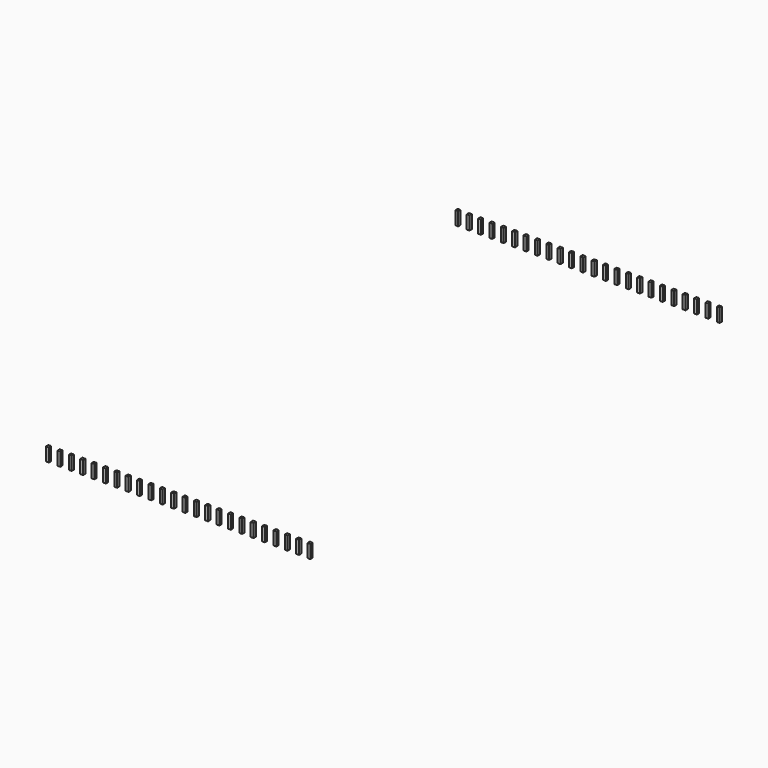
from build123d import *

# Parameters (mm, degrees)
BOX002_W      = 0.64
BOX002_H      = 0.64
BOX002_DEPTH  = 3
ARRAY_X_COUNT = 24
ARRAY_X_PITCH = 2.54
ARRAY_Y_COUNT = 2
ARRAY_Y_PITCH = 114.3


with BuildPart() as part:
    # Box002 → Box002 (new body)
    with BuildSketch(Plane(origin=(-0.32, -0.32, -5), x_dir=(1, 0, 0), z_dir=(0, 0, 1))):
        with Locations((0.32, 0.32)):
            Rectangle(BOX002_W, BOX002_H)
    extrude(amount=BOX002_DEPTH)

    # Array X: part ×24


with BuildPart() as part_1:
    add(part.part)
    with Locations(*[(i * ARRAY_X_PITCH, 0, 0) for i in range(1, ARRAY_X_COUNT)]):
        add(part.part)

    # Array Y: part ×2


with BuildPart() as part_2:
    add(part_1.part)
    with Locations(*[(0, -i * ARRAY_Y_PITCH, 0) for i in range(1, ARRAY_Y_COUNT)]):
        add(part_1.part)


with BuildPart() as part_3:
    # Array placement: moved
    add(part_2.part.moved(Location((0, 0, 2))))


solid = part_3.part
